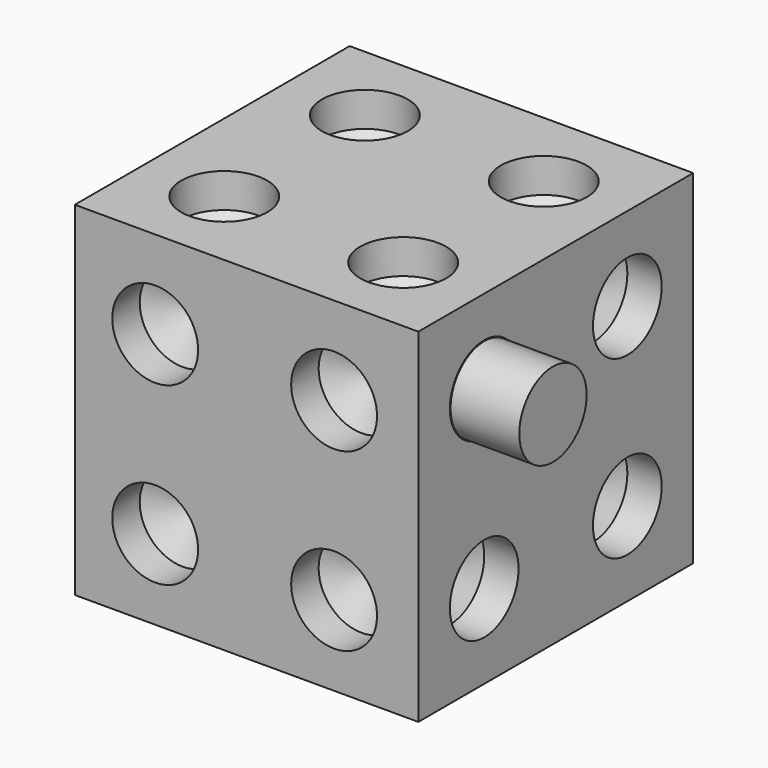
from build123d import *

# Parameters (mm, degrees)
F0_W      = 25.4
F0_H      = 25.4
F1_DEPTH  = 12.7
F3_D      = 6.35
F3_DEPTH  = 2.54
F3_TIP    = 1.9077324654
F5_D      = 6.35
F5_DEPTH  = 2.54
F5_TIP    = 1.9077324654
F7_D      = 6.35
F7_DEPTH  = 2.54
F7_TIP    = 1.9077324654
F9_D      = 6.35
F9_DEPTH  = 2.54
F9_TIP    = 1.9077324654
F11_D     = 6.35
F11_DEPTH = 2.54
F11_TIP   = 1.9077324654
F13_D     = 6.35
F13_DEPTH = 2.54
F13_TIP   = 1.9077324654
F14_R     = 3.1115
F15_DEPTH = 5.08


with BuildPart() as f1:
    # F0 (on Front) → F1 (new body, symmetric)
    with BuildSketch(Plane.XZ):
        Rectangle(F0_W, F0_H)
    extrude(amount=F1_DEPTH, both=True)

    # F3
    with Locations(Plane.XZ.offset(12.7)):
        with Locations((-6.755665876, 6.210364867), (6.4703356475, 6.210364867), (6.4703356475, -6.7836008966), (-6.755665876, -6.7836008966)):
            Hole(F3_D / 2, depth=F3_DEPTH)
            with Locations((0, 0, -(F3_DEPTH + F3_TIP / 2))):  # 118° drill point
                Cone(0, F3_D / 2, F3_TIP, mode=Mode.SUBTRACT)

    # F5
    with Locations(Plane.YZ.offset(12.7)):
        with Locations((-6.6130007617, 6.4969828818), (6.6130007617, 6.4969828818), (6.6130007617, -6.4969828818), (-6.6130007617, -6.4969828818)):
            Hole(F5_D / 2, depth=F5_DEPTH)
            with Locations((0, 0, -(F5_DEPTH + F5_TIP / 2))):  # 118° drill point
                Cone(0, F5_D / 2, F5_TIP, mode=Mode.SUBTRACT)

    # F7
    with Locations(Plane(origin=(0, 12.7, 0), x_dir=(-1, 0, 0), z_dir=(0, 1, 0))):
        with Locations((-6.6130007617, 6.4969828818), (6.6130007617, 6.4969828818), (6.6130007617, -6.4969828818), (-6.6130007617, -6.4969828818)):
            Hole(F7_D / 2, depth=F7_DEPTH)
            with Locations((0, 0, -(F7_DEPTH + F7_TIP / 2))):  # 118° drill point
                Cone(0, F7_D / 2, F7_TIP, mode=Mode.SUBTRACT)

    # F9
    with Locations(Plane(origin=(-12.7, 0, 0), x_dir=(0, -1, 0), z_dir=(-1, 0, 0))):
        with Locations((-6.6130007617, 6.4969828818), (6.6130007617, 6.4969828818), (6.6130007617, -6.4969828818), (-6.6130007617, -6.4969828818)):
            Hole(F9_D / 2, depth=F9_DEPTH)
            with Locations((0, 0, -(F9_DEPTH + F9_TIP / 2))):  # 118° drill point
                Cone(0, F9_D / 2, F9_TIP, mode=Mode.SUBTRACT)

    # F11
    with Locations(Plane.XY.offset(12.7)):
        with Locations((-6.6130007617, 6.4969828818), (6.6130007617, 6.4969828818), (6.6130007617, -6.4969828818), (-6.6130007617, -6.4969828818)):
            Hole(F11_D / 2, depth=F11_DEPTH)
            with Locations((0, 0, -(F11_DEPTH + F11_TIP / 2))):  # 118° drill point
                Cone(0, F11_D / 2, F11_TIP, mode=Mode.SUBTRACT)

    # F13
    with Locations(Plane(origin=(0, 0, -12.7), x_dir=(1, 0, 0), z_dir=(0, 0, -1))):
        with Locations((-6.6130007617, 6.4969828818), (6.6130007617, 6.4969828818), (6.6130007617, -6.4969828818), (-6.6130007617, -6.4969828818)):
            Hole(F13_D / 2, depth=F13_DEPTH)
            with Locations((0, 0, -(F13_DEPTH + F13_TIP / 2))):  # 118° drill point
                Cone(0, F13_D / 2, F13_TIP, mode=Mode.SUBTRACT)


with BuildPart() as f15:
    # F14 (on face) → F15 (new body)
    with BuildSketch(Plane.YZ.offset(12.7)):
        with Locations((-6.6130007617, 6.4969828818)):
            Circle(F14_R)
    extrude(amount=F15_DEPTH)


solid = Compound([f1.part, f15.part])
